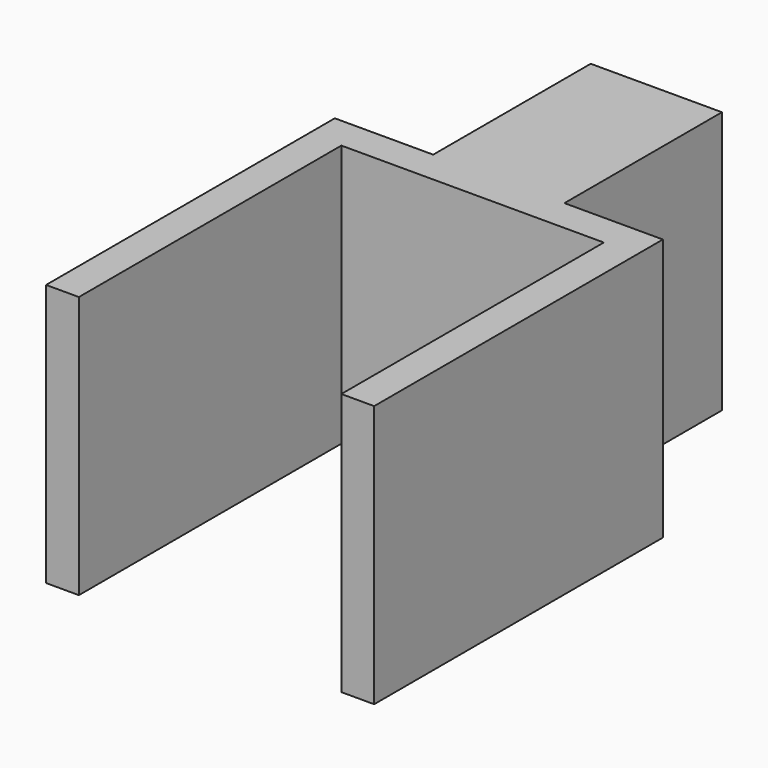
from build123d import *

# Parameters (mm, degrees)
PAD_DEPTH = 40


with BuildPart() as part:
    # Sketch → Pad (new body)
    with BuildSketch(Plane.XY):
        Polygon((0, 0), (20, 0), (20, -50), (25, -50), (25, 5), (10, 5), (10, 35), (0, 35), align=None)
    pad = extrude(amount=PAD_DEPTH)

    # Mirrored: Pad across Sketch V_Axis
    add(pad.mirror(Plane(origin=(0, 0, 0), x_dir=(0, 0, 1), z_dir=(1, 0, 0))))


solid = part.part
